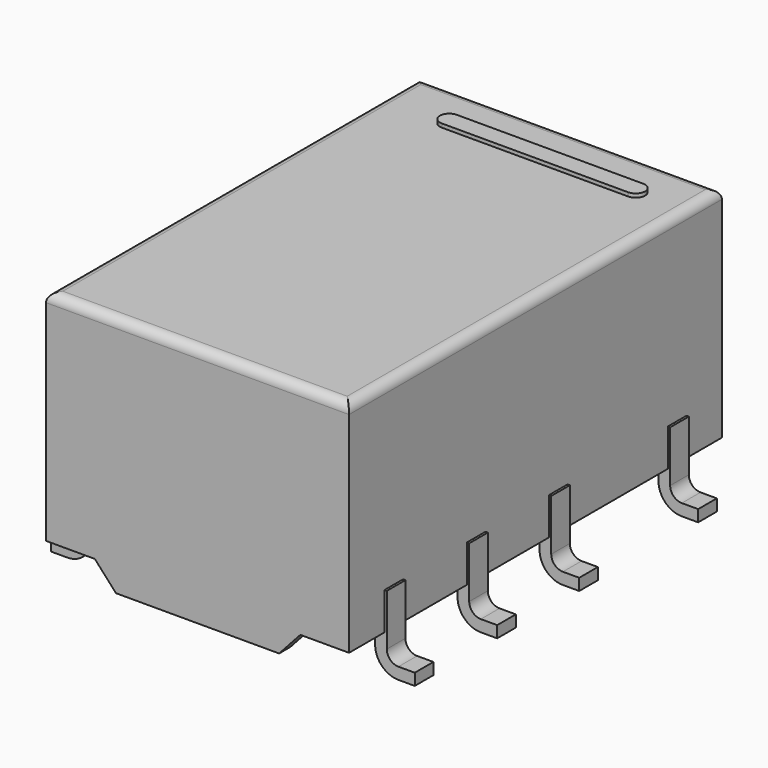
from build123d import *

# Parameters (mm, degrees)
PAD004_DEPTH = 0.25
PAD003_DEPTH = 0.25
PAD005_DEPTH = 0.25
PAD008_DEPTH = 0.3
SKETCH008_W  = 4.5
SKETCH008_H  = 0.35
PAD006_DEPTH = 4
PAD001_DEPTH = 0.18
PAD002_DEPTH = 0.25
PAD007_DEPTH = 0.3
SKETCH_W     = 10
SKETCH_H     = 6.5
PAD_DEPTH    = 4.7
POCKET_DEPTH = 0.5
FILLET_R     = 0.2


with BuildPart() as pad004:
    # Sketch006 → Pad004 (new body, symmetric)
    with BuildSketch(Plane.XZ.offset(-3.8)):
        with BuildLine():
            Line((-3.9, 0), (-3.549998, 0))
            ThreePointArc((-3.549998, 0), (-3.196446, 0.146447), (-3.05, 0.5))
            Line((-3.05, 1.6), (-3.05, 0.5))
            Line((-3.3, 1.6), (-3.05, 1.6))
            Line((-3.3, 0.499998), (-3.3, 1.6))
            ThreePointArc((-3.549998, 0.25), (-3.373223, 0.323223), (-3.3, 0.499998))
            Line((-3.549998, 0.25), (-3.9, 0.25))
            Line((-3.9, 0.25), (-3.9, 0))
        make_face()
        with BuildLine():
            Line((3.3, 1.6), (3.05, 1.6))
            Line((3.05, 1.6), (3.05, 0.500004))
            ThreePointArc((3.05, 0.500004), (3.196444, 0.146448), (3.549998, 0))
            Line((3.9, 0), (3.549998, 0))
            Line((3.9, 0.25), (3.9, 0))
            Line((3.549998, 0.25), (3.9, 0.25))
            ThreePointArc((3.3, 0.499998), (3.373223, 0.323223), (3.549998, 0.25))
            Line((3.3, 0.499998), (3.3, 1.6))
        make_face()
    extrude(amount=PAD004_DEPTH, both=True)


with BuildPart() as pad003:
    # Sketch005 → Pad003 (new body, symmetric)
    with BuildSketch(Plane.XZ.offset(3.8)):
        with BuildLine():
            Line((-3.9, 0), (-3.549998, 0))
            ThreePointArc((-3.549998, 0), (-3.196446, 0.146447), (-3.05, 0.5))
            Line((-3.05, 1.6), (-3.05, 0.5))
            Line((-3.3, 1.6), (-3.05, 1.6))
            Line((-3.3, 0.499998), (-3.3, 1.6))
            ThreePointArc((-3.549998, 0.25), (-3.373223, 0.323223), (-3.3, 0.499998))
            Line((-3.549998, 0.25), (-3.9, 0.25))
            Line((-3.9, 0.25), (-3.9, 0))
        make_face()
        with BuildLine():
            Line((3.3, 1.6), (3.05, 1.6))
            Line((3.05, 1.6), (3.05, 0.500004))
            ThreePointArc((3.05, 0.500004), (3.196444, 0.146448), (3.549998, 0))
            Line((3.9, 0), (3.549998, 0))
            Line((3.9, 0.25), (3.9, 0))
            Line((3.549998, 0.25), (3.9, 0.25))
            ThreePointArc((3.3, 0.499998), (3.373223, 0.323223), (3.549998, 0.25))
            Line((3.3, 0.499998), (3.3, 1.6))
        make_face()
    extrude(amount=PAD003_DEPTH, both=True)


with BuildPart() as pad005:
    # Sketch007 → Pad005 (new body, symmetric)
    with BuildSketch(Plane.XZ.offset(-0.61)):
        with BuildLine():
            Line((-3.9, 0), (-3.549998, 0))
            ThreePointArc((-3.549998, 0), (-3.196446, 0.146447), (-3.05, 0.5))
            Line((-3.05, 1.6), (-3.05, 0.5))
            Line((-3.3, 1.6), (-3.05, 1.6))
            Line((-3.3, 0.499998), (-3.3, 1.6))
            ThreePointArc((-3.549998, 0.25), (-3.373223, 0.323223), (-3.3, 0.499998))
            Line((-3.549998, 0.25), (-3.9, 0.25))
            Line((-3.9, 0.25), (-3.9, 0))
        make_face()
        with BuildLine():
            Line((3.3, 1.6), (3.05, 1.6))
            Line((3.05, 1.6), (3.05, 0.500004))
            ThreePointArc((3.05, 0.500004), (3.196444, 0.146448), (3.549998, 0))
            Line((3.9, 0), (3.549998, 0))
            Line((3.9, 0.25), (3.9, 0))
            Line((3.549998, 0.25), (3.9, 0.25))
            ThreePointArc((3.3, 0.499998), (3.373223, 0.323223), (3.549998, 0.25))
            Line((3.3, 0.499998), (3.3, 1.6))
        make_face()
    extrude(amount=PAD005_DEPTH, both=True)


with BuildPart() as pad008:
    # Sketch010 → Pad008 (new body)
    with BuildSketch(Plane.XZ.offset(-5)):
        Polygon((-1.75, 0.3), (1.75, 0.3), (2.25, 0.85), (-2.25, 0.85), align=None)
    extrude(amount=PAD008_DEPTH)


with BuildPart() as pad006:
    # Sketch008 → Pad006 (new body, symmetric)
    with BuildSketch(Plane.XZ):
        with Locations((0, 0.675)):
            Rectangle(SKETCH008_W, SKETCH008_H)
    extrude(amount=PAD006_DEPTH, both=True)


with BuildPart() as pad001:
    # Sketch001 → Pad001 (new body)
    with BuildSketch(Plane(origin=(0, 0, 5.4), x_dir=(0, -1, 0), z_dir=(0, 0, 1))):
        with BuildLine():
            Line((-3.8, -1.8), (-3.8, 2.2))
            ThreePointArc((-3.8, 2.2), (-4, 2.4), (-4.2, 2.2))
            Line((-4.2, 2.2), (-4.2, -1.8))
            ThreePointArc((-4.2, -1.8), (-4, -2), (-3.8, -1.8))
        make_face()
    extrude(amount=PAD001_DEPTH)


with BuildPart() as pad002:
    # Sketch004 → Pad002 (new body, symmetric)
    with BuildSketch(Plane.XZ.offset(1.59)):
        with BuildLine():
            Line((-3.9, 0), (-3.549998, 0))
            ThreePointArc((-3.549998, 0), (-3.196446, 0.146447), (-3.05, 0.5))
            Line((-3.05, 1.6), (-3.05, 0.5))
            Line((-3.3, 1.6), (-3.05, 1.6))
            Line((-3.3, 0.499998), (-3.3, 1.6))
            ThreePointArc((-3.549998, 0.25), (-3.373223, 0.323223), (-3.3, 0.499998))
            Line((-3.549998, 0.25), (-3.9, 0.25))
            Line((-3.9, 0.25), (-3.9, 0))
        make_face()
        with BuildLine():
            Line((3.3, 1.6), (3.05, 1.6))
            Line((3.05, 1.6), (3.05, 0.500004))
            ThreePointArc((3.05, 0.500004), (3.196444, 0.146448), (3.549998, 0))
            Line((3.9, 0), (3.549998, 0))
            Line((3.9, 0.25), (3.9, 0))
            Line((3.549998, 0.25), (3.9, 0.25))
            ThreePointArc((3.3, 0.499998), (3.373223, 0.323223), (3.549998, 0.25))
            Line((3.3, 0.499998), (3.3, 1.6))
        make_face()
    extrude(amount=PAD002_DEPTH, both=True)


with BuildPart() as pad007:
    # Sketch009 → Pad007 (new body)
    with BuildSketch(Plane.XZ.offset(5)):
        Polygon((-1.75, 0.3), (1.75, 0.3), (2.25, 0.85), (-2.25, 0.85), align=None)
    extrude(amount=-PAD007_DEPTH)


with BuildPart() as obj1:
    # Sketch → Pad (new body)
    with BuildSketch(Plane(origin=(0, 0, 0.8), x_dir=(0, -1, 0), z_dir=(0, 0, 1))):
        Rectangle(SKETCH_W, SKETCH_H)
    extrude(amount=PAD_DEPTH)

    # Sketch003 → Pocket (cut)
    with BuildSketch(Plane(origin=(0, 0, 5.5), x_dir=(0, -1, 0), z_dir=(0, 0, 1))):
        with BuildLine():
            ThreePointArc((-0.318267, 7.6), (0.223846, 7.813173), (0.45, 8.35))
            Line((0.45, 8.35), (-2.05, 8.35))
            Line((-2.05, 8.35), (-2.05, 7.6))
            Line((-2.05, 7.6), (-0.318267, 7.6))
        make_face()
        with BuildLine():
            Line((9.6, -0.75), (12.1, -0.75))
            Line((12.1, -0.75), (12.1, 0))
            Line((10.285847, 0), (12.1, 0))
            ThreePointArc((10.285847, 0), (9.797313, -0.241845), (9.6, -0.75))
        make_face()
    extrude(amount=-POCKET_DEPTH, mode=Mode.SUBTRACT)

    # Fillet
    fillet_edges = [obj1.edges().sort_by_distance(p)[0] for p in [
        (-3.25, 0, 5.5),
        (0, -5, 5.5),
        (3.25, 0, 5.5),
        (0, 5, 5.5),
    ]]
    fillet(fillet_edges, radius=FILLET_R)

    add(pad004.part)
    add(pad003.part)
    add(pad005.part)
    add(pad008.part)
    add(pad006.part)
    add(pad001.part)
    add(pad002.part)
    add(pad007.part)


solid = obj1.part
